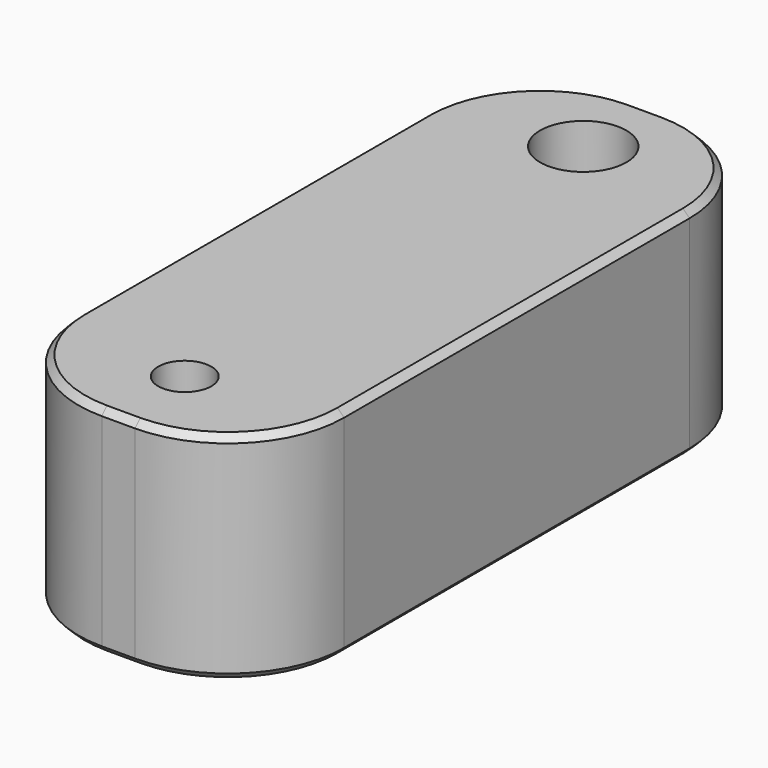
from build123d import *

# Parameters (mm, degrees)
CYLINDER007_R     = 2.6
CYLINDER007_DEPTH = 15
CYLINDER008_R     = 1.6
CYLINDER008_DEPTH = 15
BOX007_W          = 16
BOX007_H          = 40
BOX007_DEPTH      = 13
FILLET_R          = 7
CHAMFER008_SIZE   = 0.4


with BuildPart() as cylinder007:
    # Cylinder007 → Cylinder007 (new body)
    with BuildSketch(Plane(origin=(10, 10, -20), x_dir=(1, 0, 0), z_dir=(0, 0, 1))):
        Circle(CYLINDER007_R)
    extrude(amount=CYLINDER007_DEPTH)


with BuildPart() as fusion009:
    # Cylinder008 → Cylinder008 (new body)
    with BuildSketch(Plane(origin=(10, -20, -20), x_dir=(1, 0, 0), z_dir=(0, 0, 1))):
        Circle(CYLINDER008_R)
    extrude(amount=CYLINDER008_DEPTH)

    # Fusion009: union Cylinder007
    add(cylinder007.part)


with BuildPart() as obj1:
    # Box007 → Box007 (new body)
    with BuildSketch(Plane(origin=(2, -25, -20), x_dir=(1, 0, 0), z_dir=(0, 0, 1))):
        with Locations((8, 20)):
            Rectangle(BOX007_W, BOX007_H)
    extrude(amount=BOX007_DEPTH)

    # Fillet
    fillet_edges = [obj1.edges().sort_by_distance(p)[0] for p in [
        (2, -25, -13.5),
        (2, 15, -13.5),
        (18, -25, -13.5),
        (18, 15, -13.5),
    ]]
    fillet(fillet_edges, radius=FILLET_R)

    # Chamfer008
    chamfer008_edges = [obj1.edges().sort_by_distance(p)[0] for p in [
        (2, -5, -7),
        (2, -5, -20),
        (4.050253, -22.949747, -7),
        (4.050253, 12.949747, -7),
        (10, -25, -7),
        (10, 15, -7),
        (15.949747, -22.949747, -7),
        (15.949747, 12.949747, -7),
        (18, -5, -7),
        (4.050253, -22.949747, -20),
        (4.050253, 12.949747, -20),
        (10, -25, -20),
        (10, 15, -20),
        (15.949747, -22.949747, -20),
        (15.949747, 12.949747, -20),
        (18, -5, -20),
    ]]
    chamfer(chamfer008_edges, length=CHAMFER008_SIZE)

    # Cut008: cut Fusion009
    add(fusion009.part, mode=Mode.SUBTRACT)


with BuildPart() as obj1_1:
    # Cut008 placement: moved
    add(obj1.part.moved(Location((4, 0, 0))))


solid = obj1_1.part
